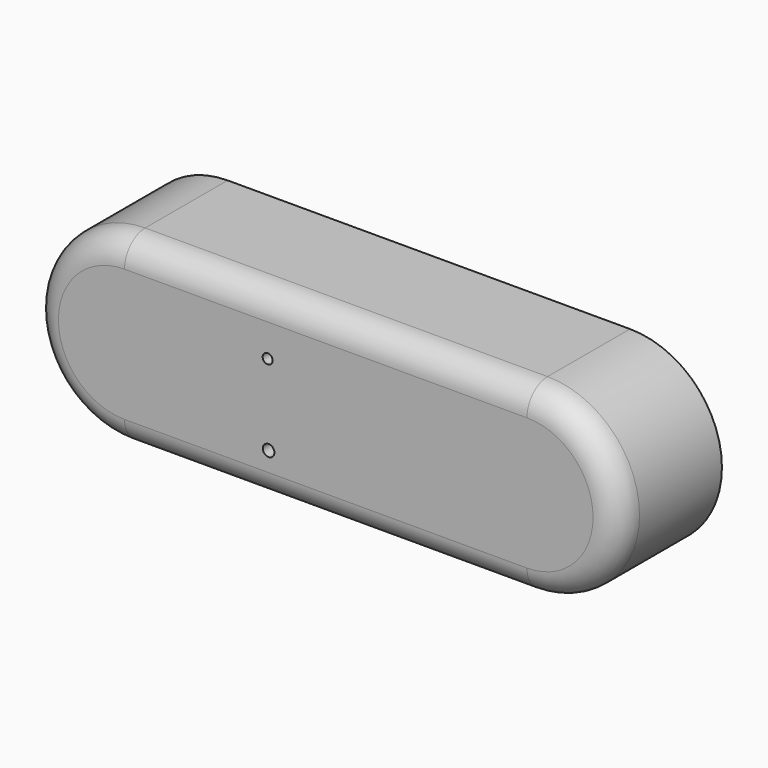
from build123d import *

# Parameters (mm, degrees)
F0_R     = 1.142067
F0_R_2   = 12.345582
F0_R_3   = 0.979315
F0_R_4   = 12.168057
F1_DEPTH = 25.4
F2_R     = 5.08


with BuildPart() as f1:
    # F0 (on Front) → F1 (new body)
    with BuildSketch(Plane.XZ):
        with BuildLine():
            Line((37.311886, 36.23464), (-42.012595, 36.23464))
            ThreePointArc((-42.012595, 36.23464), (-60.129914, 18.11732), (-42.012595, 0))
            Line((-42.012595, 0), (37.311886, 0))
            ThreePointArc((37.311886, 0), (55.429205, 18.11732), (37.311886, 36.23464))
        make_face()
        with Locations((-13.612472, 8.911762)):
            Circle(F0_R, mode=Mode.SUBTRACT)
        with Locations((8.128311, 17.333869)):
            Circle(F0_R_2, mode=Mode.SUBTRACT)
        with Locations((-13.808336, 24.776658)):
            Circle(F0_R_3, mode=Mode.SUBTRACT)
        with Locations((37.311886, 18.11732)):
            Circle(F0_R_4, mode=Mode.SUBTRACT)
        with Locations((8.128311, 17.333869)):
            Circle(F0_R_2)
        with Locations((37.311886, 18.11732)):
            Circle(F0_R_4)
    extrude(amount=F1_DEPTH)

    # F2
    f2_edges = [f1.edges().sort_by_distance(p)[0] for p in [
        (-60.129914, -25.4, 18.11732),
        (-2.350355, -25.4, 36.23464),
        (-2.350355, -25.4, 0),
        (55.429205, -25.4, 18.11732),
    ]]
    fillet(f2_edges, radius=F2_R)


solid = f1.part
